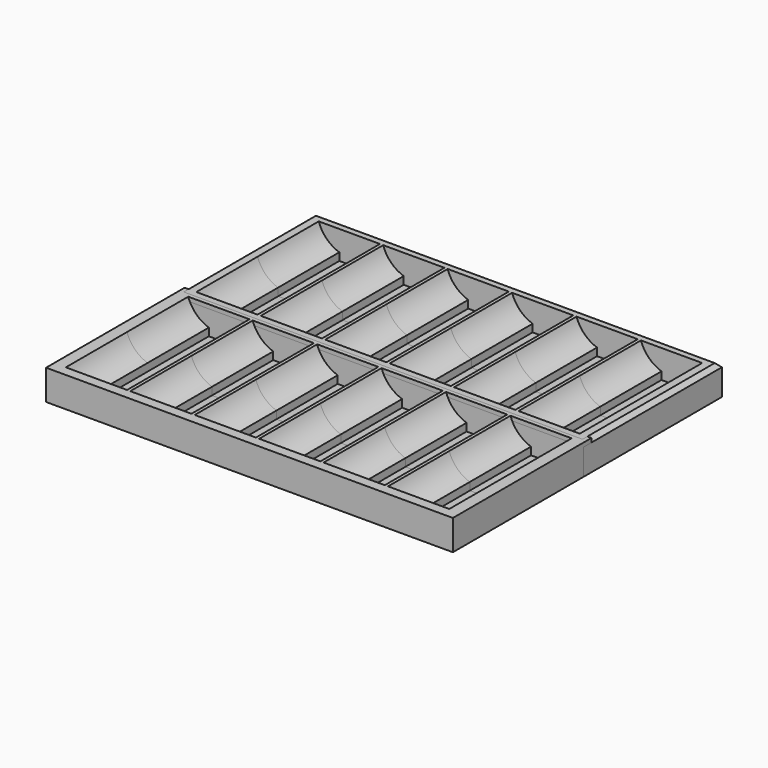
from build123d import *

# Parameters (mm, degrees)
SKETCH004_W             = 202
SKETCH004_H             = 43
PAD002_DEPTH            = 15
POCKET002_DEPTH         = 38
LINEARPATTERN002_COUNT  = 6
LINEARPATTERN002_PITCH  = 32
SKETCH006_W             = 202
SKETCH006_H             = 43
PAD003_DEPTH            = 15
POCKET003_DEPTH         = 38
LINEARPATTERN003_COUNT  = 6
LINEARPATTERN003_PITCH  = 32
BODY003_PLACEMENT_ANGLE = 180
SKETCH_W                = 202
SKETCH_H                = 43
PAD_DEPTH               = 15
POCKET_DEPTH            = 38
LINEARPATTERN_COUNT     = 6
LINEARPATTERN_PITCH     = 32
SKETCH002_W             = 202
SKETCH002_H             = 43
PAD001_DEPTH            = 15
POCKET001_DEPTH         = 38
LINEARPATTERN001_COUNT  = 6
LINEARPATTERN001_PITCH  = 32
BODY001_PLACEMENT_ANGLE = 180
CHAMFER_SIZE            = 2


with BuildPart() as body002:
    # Sketch004 → Pad002 (new body)
    with BuildSketch(Plane.XY):
        with Locations((96, 21.5)):
            Rectangle(SKETCH004_W, SKETCH004_H)
    extrude(amount=PAD002_DEPTH)

    # Sketch005 (on Face1 of Pad002) → Pocket002 (cut)
    with BuildSketch(Plane.XZ):
        with BuildLine():
            ThreePointArc((21, 4.801316), (16, 36), (11, 4.801316))
            Line((11, 4.801316), (11, 1))
            Line((11, 1), (21, 1))
            Line((21, 1), (21, 4.801316))
        make_face()
    pocket002 = extrude(amount=-POCKET002_DEPTH, mode=Mode.SUBTRACT)

    # LinearPattern002: Pocket002 ×6
    with Locations(*[(i * LINEARPATTERN002_PITCH, 0, 0) for i in range(1, LINEARPATTERN002_COUNT)]):
        add(pocket002, mode=Mode.SUBTRACT)


with BuildPart() as fusion001:
    # Sketch006 → Pad003 (new body)
    with BuildSketch(Plane.XY):
        with Locations((96, 21.5)):
            Rectangle(SKETCH006_W, SKETCH006_H)
    extrude(amount=PAD003_DEPTH)

    # Sketch007 (on Face1 of Pad003) → Pocket003 (cut)
    with BuildSketch(Plane.XZ):
        with BuildLine():
            ThreePointArc((21, 4.801316), (16, 36), (11, 4.801316))
            Line((11, 4.801316), (11, 1))
            Line((11, 1), (21, 1))
            Line((21, 1), (21, 4.801316))
        make_face()
    pocket003 = extrude(amount=-POCKET003_DEPTH, mode=Mode.SUBTRACT)

    # LinearPattern003: Pocket003 ×6
    with Locations(*[(i * LINEARPATTERN003_PITCH, 0, 0) for i in range(1, LINEARPATTERN003_COUNT)]):
        add(pocket003, mode=Mode.SUBTRACT)


with BuildPart() as fusion001_1:
    # Body003 placement: moved
    add(fusion001.part.moved(Location((192, 0, 0))).rotate(Axis((192, 0, 0), (0, 0, 1)), BODY003_PLACEMENT_ANGLE))

    # Fusion001: union Body002
    add(body002.part)


with BuildPart() as fusion001_2:
    # Fusion001 placement: moved
    add(fusion001_1.part.moved(Location((0, -81, 0))))


with BuildPart() as body:
    # Sketch → Pad (new body)
    with BuildSketch(Plane.XY):
        with Locations((96, 21.5)):
            Rectangle(SKETCH_W, SKETCH_H)
    extrude(amount=PAD_DEPTH)

    # Sketch001 (on Face1 of Pad) → Pocket (cut)
    with BuildSketch(Plane.XZ):
        with BuildLine():
            ThreePointArc((21, 4.801316), (16, 36), (11, 4.801316))
            Line((11, 4.801316), (11, 1))
            Line((11, 1), (21, 1))
            Line((21, 1), (21, 4.801316))
        make_face()
    pocket = extrude(amount=-POCKET_DEPTH, mode=Mode.SUBTRACT)

    # LinearPattern: Pocket ×6
    with Locations(*[(i * LINEARPATTERN_PITCH, 0, 0) for i in range(1, LINEARPATTERN_COUNT)]):
        add(pocket, mode=Mode.SUBTRACT)


with BuildPart() as chamfer_body:
    # Sketch002 → Pad001 (new body)
    with BuildSketch(Plane.XY):
        with Locations((96, 21.5)):
            Rectangle(SKETCH002_W, SKETCH002_H)
    extrude(amount=PAD001_DEPTH)

    # Sketch003 (on Face1 of Pad001) → Pocket001 (cut)
    with BuildSketch(Plane.XZ):
        with BuildLine():
            ThreePointArc((21, 4.801316), (16, 36), (11, 4.801316))
            Line((11, 4.801316), (11, 1))
            Line((11, 1), (21, 1))
            Line((21, 1), (21, 4.801316))
        make_face()
    pocket001 = extrude(amount=-POCKET001_DEPTH, mode=Mode.SUBTRACT)

    # LinearPattern001: Pocket001 ×6
    with Locations(*[(i * LINEARPATTERN001_PITCH, 0, 0) for i in range(1, LINEARPATTERN001_COUNT)]):
        add(pocket001, mode=Mode.SUBTRACT)


with BuildPart() as chamfer_body_1:
    # Body001 placement: moved
    add(chamfer_body.part.moved(Location((192, 0, 0))).rotate(Axis((192, 0, 0), (0, 0, 1)), BODY001_PLACEMENT_ANGLE))

    # Fusion: union Body
    add(body.part)

    # Chamfer
    chamfer_edges = [chamfer_body_1.edges().sort_by_distance(p)[0] for p in [
        (-5, -21.5, 15),
        (96, -43, 15),
        (197, -21.5, 15),
        (197, 21.5, 15),
        (96, 43, 15),
        (-5, 21.5, 15),
    ]]
    chamfer(chamfer_edges, length=CHAMFER_SIZE)


solid = Compound([fusion001_2.part, chamfer_body_1.part])
